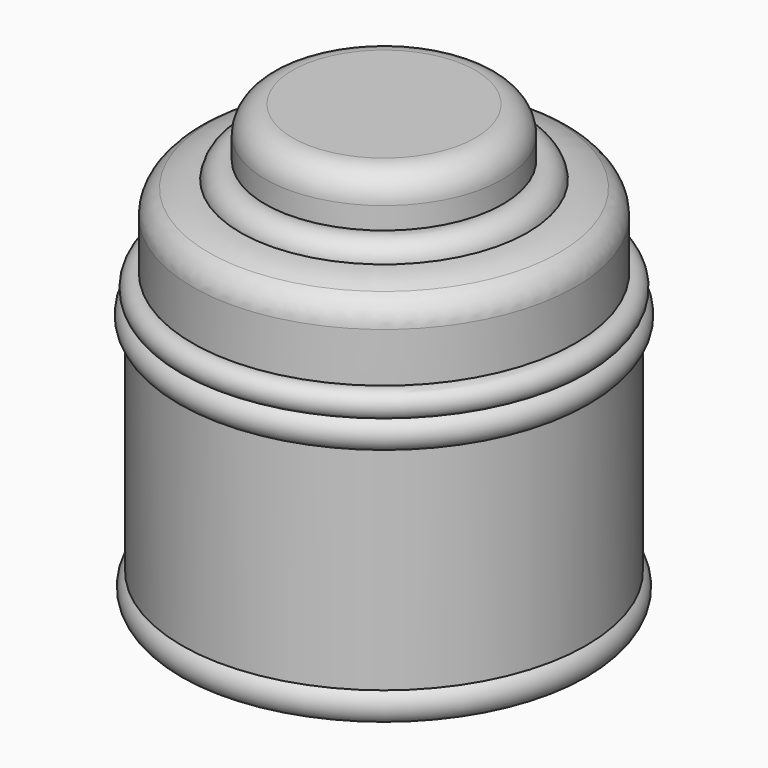
from build123d import *

# Parameters (mm, degrees)
F2_R = 5.08


with BuildPart() as f1:
    # F0 (on Front) → F1 (revolve)
    with BuildSketch(Plane.XZ):
        with BuildLine():
            Line((21.963529, 45.781121), (0, 45.781121))
            Line((0, 45.781121), (0, -35.227221))
            Line((0, -35.227221), (37.366528, -35.227221))
            ThreePointArc((37.366528, -35.227221), (38.535496, -32.660054), (37.366528, -30.092888))
            Line((37.366528, -30.092888), (37.366528, 8.98508))
            ThreePointArc((37.366528, 8.98508), (38.848131, 11.552246), (37.366528, 14.119413))
            ThreePointArc((37.366528, 14.119413), (37.929775, 16.987459), (35.369843, 18.398022))
            Line((35.369843, 18.398022), (35.369843, 30.378129))
            ThreePointArc((35.369843, 30.378129), (31.19776, 32.6491), (26.527379, 33.515774))
            ThreePointArc((26.527379, 33.515774), (24.954924, 36.116554), (21.963529, 36.653422))
            Line((21.963529, 36.653422), (21.963529, 45.781121))
        make_face()
    revolve(axis=Axis((0, 0, 5.27695), (0, 0, -1)))

    # F2
    f2_edges = [f1.edges().sort_by_distance(p)[0] for p in [
        (-21.963529, 0, 45.781121),
        (-35.369843, 0, 30.378129),
    ]]
    fillet(f2_edges, radius=F2_R)


solid = f1.part
